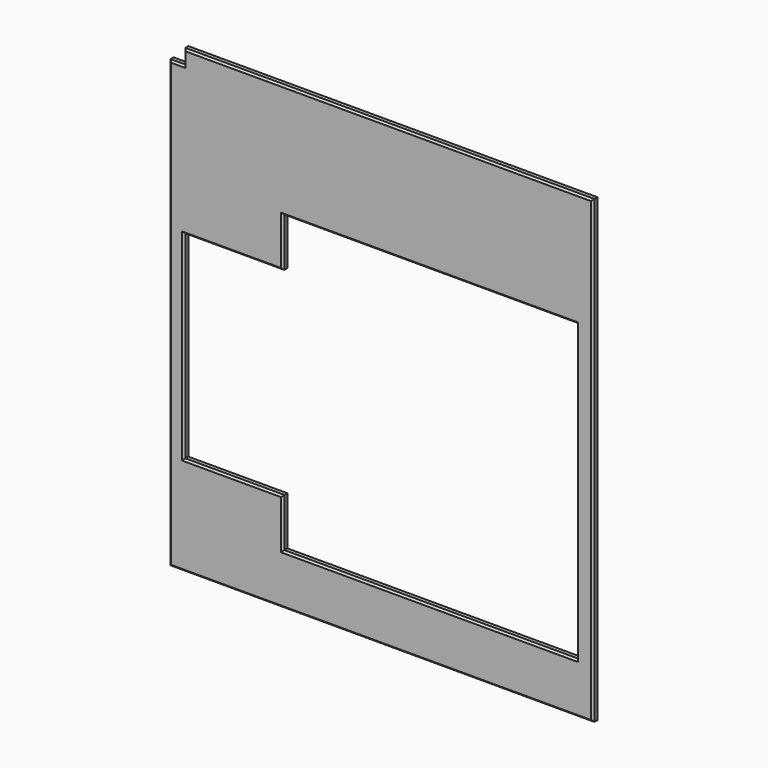
from build123d import *

# Parameters (mm, degrees)
F1_DEPTH = 9.652
F2_SIZE  = 3.175


with BuildPart() as f1:
    # F0 (on Front) → F1 (new body)
    with BuildSketch(Plane.XZ):
        Polygon((-447.799887, 463.489832), (-447.799887, -308.162168), (285.752113, -308.162168), (285.752113, 488.889832), (-422.399887, 488.889832), (-422.399887, 463.489832), align=None)
        Polygon((-422.399887, -136.712168), (-422.399887, 206.187832), (-250.949887, 206.187832), (-250.949887, 290.515832), (257.050113, 290.515832), (257.050113, -220.786168), (-250.949887, -220.786168), (-250.949887, -136.712168), align=None, mode=Mode.SUBTRACT)
    extrude(amount=F1_DEPTH)

    # F2
    f2_edges = [f1.edges().sort_by_distance(p)[0] for p in [
        (-447.799887, -9.652, 77.663832),
        (-81.023887, -9.652, -308.162168),
        (285.752113, -9.652, 90.363832),
        (-68.323887, -9.652, 488.889832),
        (-422.399887, -9.652, 476.189832),
        (-435.099887, -9.652, 463.489832),
        (257.050113, -9.652, 34.864832),
        (3.050113, -9.652, -220.786168),
        (-250.949887, -9.652, -178.749168),
        (-336.674887, -9.652, -136.712168),
        (-422.399887, -9.652, 34.737832),
        (-336.674887, -9.652, 206.187832),
        (-250.949887, -9.652, 248.351832),
        (3.050113, -9.652, 290.515832),
    ]]
    chamfer(f2_edges, length=F2_SIZE)


solid = f1.part
